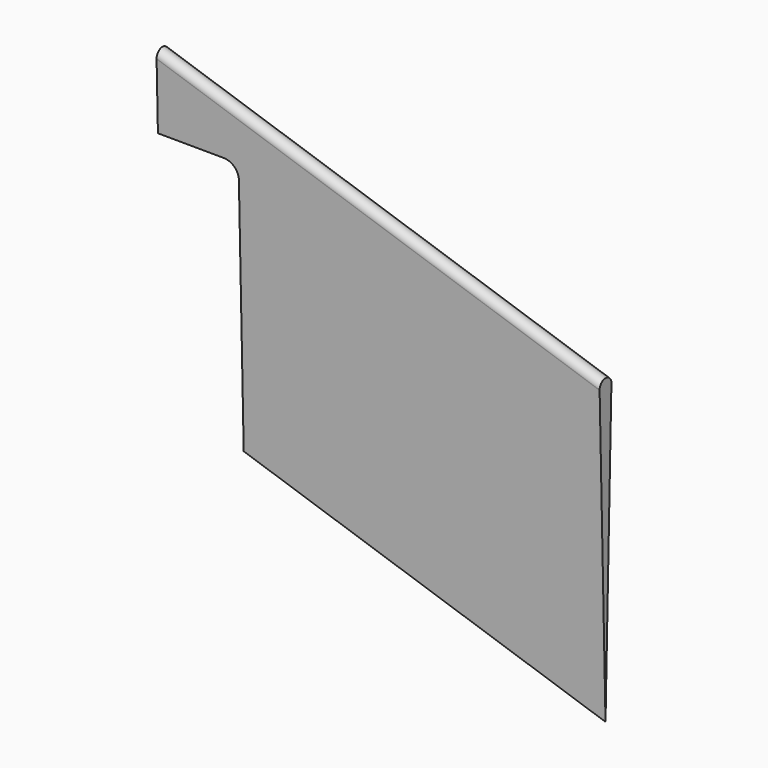
from build123d import *

# Parameters (mm, degrees)
F4_W     = 13.97
F4_H     = 47.276461
F5_DEPTH = 12.7
F6_R     = 2.54


with BuildPart() as f3:
    # F0 (on Right) → F3 section 0
    with BuildSketch(Plane.YZ):
        with BuildLine():
            Line((-1.268412, 50.720642), (0, 0))
            Line((0, 0), (1.268412, 50.720642))
            Line((1.268412, 50.720642), (1.27, 50.784123))
            ThreePointArc((1.27, 50.784123), (0, 52.054123), (-1.27, 50.784123))
            Line((-1.27, 50.784123), (-1.268412, 50.720642))
        make_face()
    # F2 (on offset) → F3 section 1
    with BuildSketch(Plane.YZ.offset(76.2)):
        with BuildLine():
            Line((-1.268017, 25.320682), (0, -25.4))
            Line((0, -25.4), (1.269206, 25.352382))
            ThreePointArc((1.269206, 25.352382), (0.015871, 26.653626), (-1.269603, 25.384123))
            Line((-1.269603, 25.384123), (-1.268017, 25.320682))
        make_face()
    loft()

    # F4 (on Front) → F5 (cut, symmetric)
    with BuildSketch(Plane.XZ):
        with Locations((6.985, 15.715496)):
            Rectangle(F4_W, F4_H)
    extrude(amount=F5_DEPTH, both=True, mode=Mode.SUBTRACT)

    # F6
    f6_edges = [f3.edges().sort_by_distance(p)[0] for p in [
        (13.97, 3.2e-05, 39.353726),
    ]]
    fillet(f6_edges, radius=F6_R)


solid = f3.part
